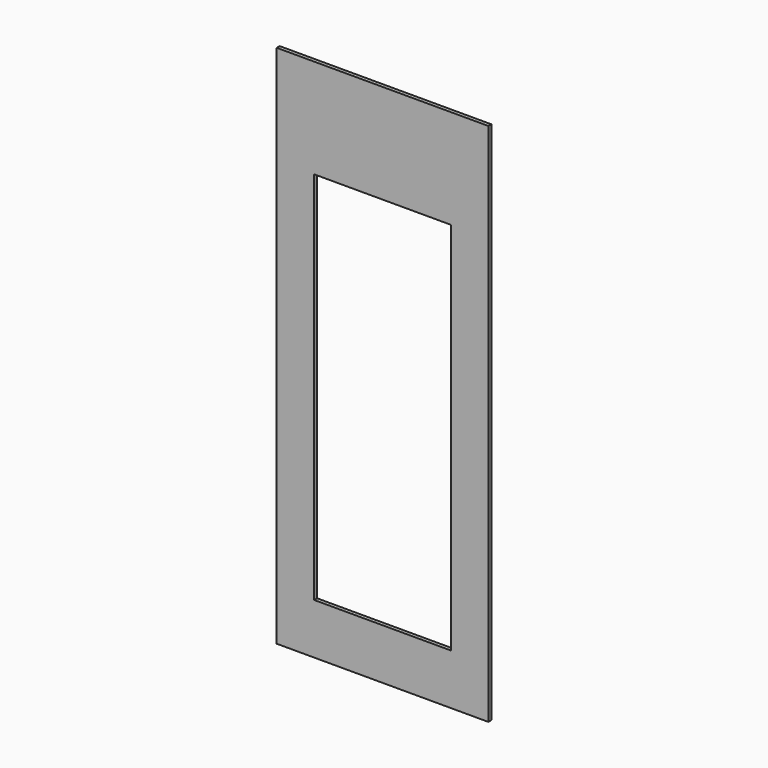
from build123d import *

# Parameters (mm, degrees)
BOX014_W     = 393.7
BOX014_H     = 10.668
BOX014_DEPTH = 1079.5
BOX_W        = 609.6
BOX_H        = 10.668
BOX_DEPTH    = 1511.3


with BuildPart() as doorcutout:
    # Box014 → Box014 (new body)
    with BuildSketch(Plane(origin=(118.618, 25.4, 146.05), x_dir=(1, 0, 0), z_dir=(0, 0, 1))):
        with Locations((196.85, 5.334)):
            Rectangle(BOX014_W, BOX014_H)
    extrude(amount=BOX014_DEPTH)


with BuildPart() as obj1:
    # Box → Box (new body)
    with BuildSketch(Plane(origin=(10.668, 25.4, 0), x_dir=(1, 0, 0), z_dir=(0, 0, 1))):
        with Locations((304.8, 5.334)):
            Rectangle(BOX_W, BOX_H)
    extrude(amount=BOX_DEPTH)

    # Cut001: cut DoorCutout
    add(doorcutout.part, mode=Mode.SUBTRACT)


solid = obj1.part
